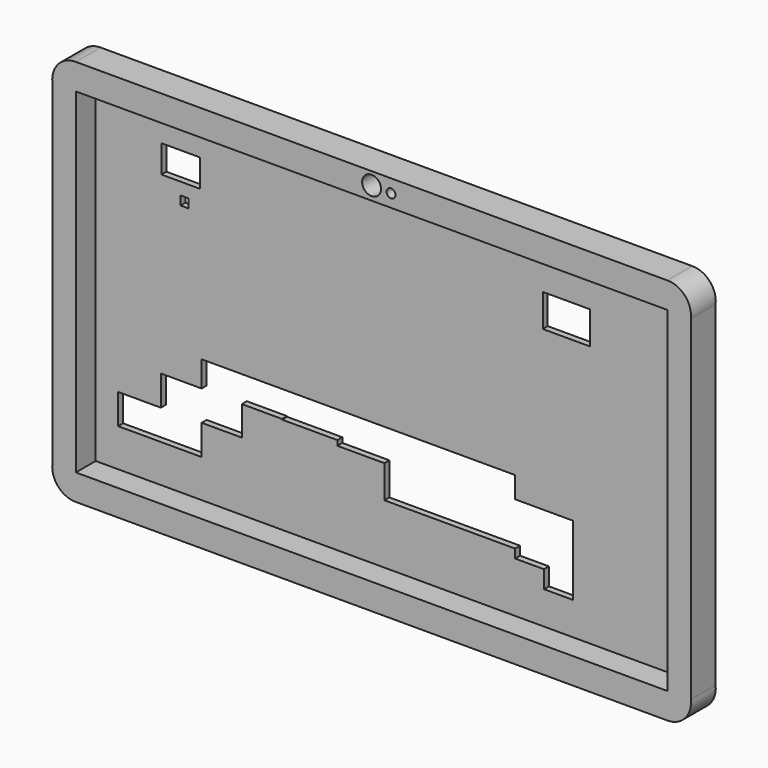
from build123d import *

# Parameters (mm, degrees)
F0_R     = 3.8551712717
F0_R_2   = 1.8170405965
F1_DEPTH = 12.7
F0_W     = 120.9587007761
F0_H     = 68.6061382294
F0_W_2   = 3.2722949982
F0_H_2   = 3.6340802908
F0_W_3   = 15.6750679016
F0_H_3   = 11.3066062331
F0_W_4   = 19.2726254463
F0_H_4   = 13.362351805
F2_DEPTH = 2.54


with BuildPart() as f1:
    # F0 (on Front) → F1 (new body)
    with BuildSketch(Plane.XZ):
        with BuildLine():
            Line((-130.564019084, 68.6061382294), (-120.9587007761, 68.6061382294))
            Line((-120.9587007761, 68.6061382294), (-120.9587007761, 79.2347192764))
            ThreePointArc((-120.9587007761, 79.2347192764), (-128.1642263421, 76.0919600831), (-130.564019084, 68.6061382294))
        make_face()
        with BuildLine():
            Line((120.9587007761, 79.2347192764), (120.9587007761, 68.6061382294))
            Line((120.9587007761, 68.6061382294), (130.564019084, 68.6061382294))
            ThreePointArc((130.564019084, 68.6061382294), (128.1642263421, 76.0919600831), (120.9587007761, 79.2347192764))
        make_face()
        with BuildLine():
            Line((-120.9587007761, -79.2347192764), (-120.9587007761, -68.6061382294))
            Line((-120.9587007761, -68.6061382294), (-130.564019084, -68.6061382294))
            ThreePointArc((-130.564019084, -68.6061382294), (-128.1642263421, -76.0919600831), (-120.9587007761, -79.2347192764))
        make_face()
        with BuildLine():
            Line((130.564019084, -68.6061382294), (120.9587007761, -68.6061382294))
            Line((120.9587007761, -68.6061382294), (120.9587007761, -79.2347192764))
            ThreePointArc((120.9587007761, -79.2347192764), (128.1642263421, -76.0919600831), (130.564019084, -68.6061382294))
        make_face()
        Polygon((-120.9587007761, -68.6061382294), (-120.9587007761, 0), (-120.9587007761, 68.6061382294), (-130.564019084, 68.6061382294), (-130.564019084, -68.6061382294), align=None)
        Polygon((120.9587007761, 68.6061382294), (120.9587007761, 0), (120.9587007761, -68.6061382294), (130.564019084, -68.6061382294), (130.564019084, 68.6061382294), align=None)
        Polygon((0, -68.6061382294), (-120.9587007761, -68.6061382294), (-120.9587007761, -79.2347192764), (120.9587007761, -79.2347192764), (120.9587007761, -68.6061382294), align=None)
        Polygon((-120.9587007761, 68.6061382294), (0, 68.6061382294), (120.9587007761, 68.6061382294), (120.9587007761, 79.2347192764), (-120.9587007761, 79.2347192764), align=None)
        with Locations((0, 74.081890285)):
            Circle(F0_R, mode=Mode.SUBTRACT)
        with Locations((7.9652052373, 73.8249197602)):
            Circle(F0_R_2, mode=Mode.SUBTRACT)
    extrude(amount=F1_DEPTH)

    # F0 (on Front) → F2 (join)
    with BuildSketch(Plane.XZ):
        with Locations((-60.4793503881, 34.3030691147)):
            Rectangle(F0_W, F0_H)
        with Locations((-84.6121534705, 36.4879220724)):
            Rectangle(F0_W_2, F0_H_2, mode=Mode.SUBTRACT)
        with Locations((-86.2483009696, 48.9245094359)):
            Rectangle(F0_W_3, F0_H_3, mode=Mode.SUBTRACT)
        with Locations((60.4793503881, 34.3030691147)):
            Rectangle(F0_W, F0_H)
        with Locations((71.5301930904, 45.069983229)):
            Rectangle(F0_W_4, F0_H_4, mode=Mode.SUBTRACT)
        Polygon((120.9587007761, 0), (0, 0), (0, -17.8872328252), (23.6056204885, -17.8872328252), (50.5872815847, -17.8872328252), (50.5872815847, -26.6241524369), (74.228361249, -26.6241524369), (74.228361249, -47.9525141418), (74.228361249, -55.1476255059), (62.4078214169, -55.1476255059), (62.4078214169, -47.9525141418), (50.5872815847, -47.9525141418), (50.5872815847, -44.3549603224), (20.5219965428, -44.3549603224), (0, -44.3549603224), (0, -68.6061382294), (120.9587007761, -68.6061382294), align=None)
        Polygon((0, -17.8872328252), (0, 0), (-120.9587007761, 0), (-120.9587007761, -68.6061382294), (0, -68.6061382294), (0, -44.3549603224), (-2.8621072415, -44.3549603224), (-2.8621072415, -30.9926122427), (-22.1347268671, -30.9926122427), (-22.1347268671, -28.9368666708), (-44.7479300201, -28.9368666708), (-44.7479300201, -28.6798980087), (-61.1938983202, -28.6798980087), (-61.1938983202, -40.757406503), (-77.639862895, -40.757406503), (-77.639862895, -53.0918799341), (-94.3427979946, -53.0918799341), (-111.816637218, -53.0918799341), (-111.816637218, -40.757406503), (-94.3427979946, -40.757406503), (-94.3427979946, -28.4229293466), (-77.639862895, -28.4229293466), (-77.639862895, -17.8872328252), (-61.1938983202, -17.8872328252), (-44.7479300201, -17.8872328252), (-22.1347268671, -17.8872328252), (-2.8621072415, -17.8872328252), align=None)
        with Locations((0, 74.081890285)):
            Circle(F0_R)
        with Locations((7.9652052373, 73.8249197602)):
            Circle(F0_R_2)
    extrude(amount=F2_DEPTH)


solid = f1.part
